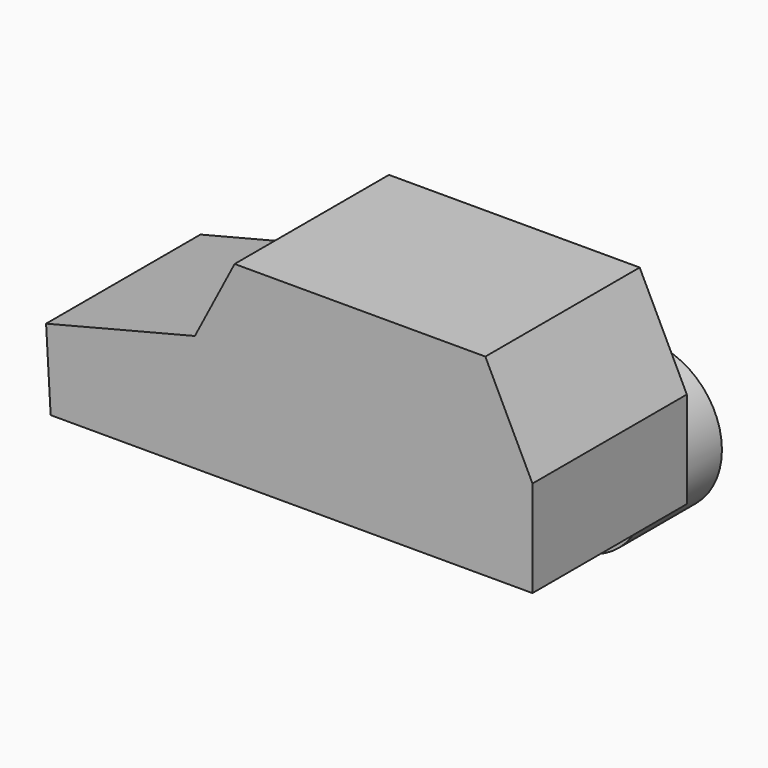
from build123d import *

# Parameters (mm, degrees)
F1_DEPTH = 50.8
F2_R     = 19.05
F3_DEPTH = 12.7
F4_DEPTH = 12.7


with BuildPart() as f1:
    # F0 (on Front) → F1 (new body)
    with BuildSketch(Plane.XZ):
        Polygon((-44.45, 5.3018676117), (-44.45, -25.4), (44.45, -25.4), (44.45, 0), (32.0377089083, 25.4), (-33.9801497757, 25.4), align=None)
        Polygon((-82.4199393392, -25.4), (-44.45, -25.4), (-44.45, 5.3018676117), (-83.6249068379, -4.5788856223), align=None)
    extrude(amount=F1_DEPTH)

    # F2 (on Front) → F3 (cut)
    with BuildSketch(Plane.XZ):
        with Locations((-42.0304983854, -18.3155424893)):
            Circle(F2_R)
        with BuildLine():
            ThreePointArc((5.4338427752, -18.3155424893), (24.4838427752, -37.3655424893), (43.5338427752, -18.3155424893))
            ThreePointArc((43.5338427752, -18.3155424893), (24.4838427752, 0.7344575107), (5.4338427752, -18.3155424893))
        make_face()
    extrude(amount=F3_DEPTH, mode=Mode.SUBTRACT)



with BuildPart() as f4:
    # F2 (on Front) → F4 (new body)
    with BuildSketch(Plane.XZ):
        with BuildLine():
            ThreePointArc((5.4338427752, -18.3155424893), (24.4838427752, -37.3655424893), (43.5338427752, -18.3155424893))
            ThreePointArc((43.5338427752, -18.3155424893), (24.4838427752, 0.7344575107), (5.4338427752, -18.3155424893))
        make_face()
    extrude(amount=F4_DEPTH)


with BuildPart() as f4b:
    # F2 (on Front) → F4, piece 2 (new body)
    with BuildSketch(Plane.XZ):
        with Locations((-42.0304983854, -18.3155424893)):
            Circle(F2_R)
    extrude(amount=F4_DEPTH)


with BuildPart() as f1_1:
    add(f1.part)

    add(f4.part)  # F5 merges F4

    add(f4b.part)  # F5 merges F4b
    # F5: F4b, F4 across plane
    add(f4b.part.mirror(Plane.XZ))
    add(f4.part.mirror(Plane.XZ))


solid = f1_1.part
